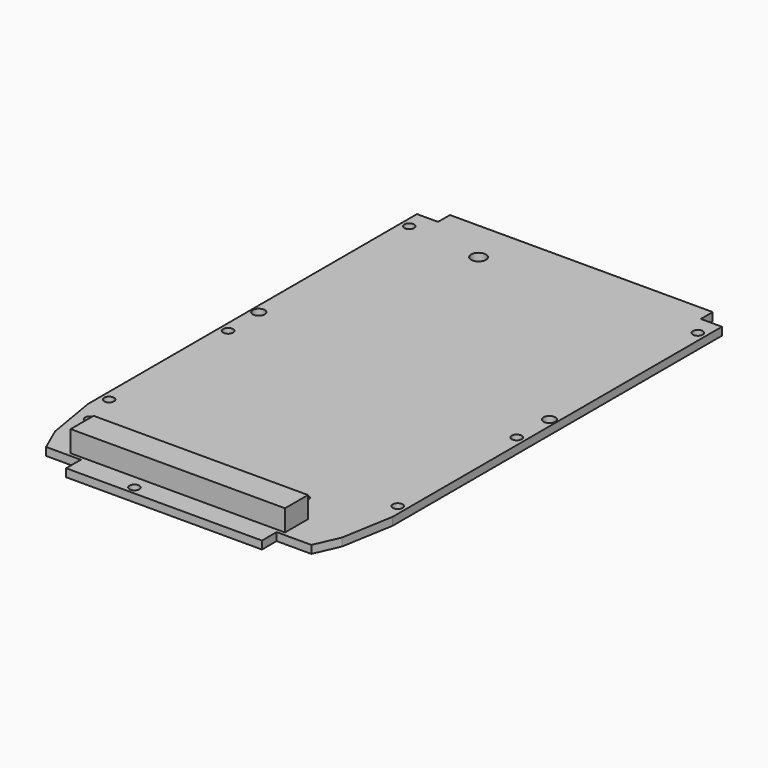
from build123d import *

# Parameters (mm, degrees)
SKETCH006_R   = 1
SKETCH006_R_2 = 1.2
SKETCH006_R_3 = 1.491082
PAD002_DEPTH  = 1.6
SKETCH033_W   = 5.831177
SKETCH033_H   = 20.949042
PAD019_DEPTH  = 5.5
PAD021_DEPTH  = 2
SKETCH053_W   = 19.104945
SKETCH053_H   = 22.868039
PAD026_DEPTH  = 2
SKETCH058_W   = 43.228985
SKETCH058_H   = 5.789597
PAD028_DEPTH  = 4.3
SKETCH110_W   = 3.54
SKETCH110_H   = 12.73
PAD057_DEPTH  = 3
FILLET018_R   = 1.7


with BuildPart() as part:
    # Sketch006 → Pad002 (new body)
    with BuildSketch(Plane.XY.offset(3)):
        Polygon((30.75, 54.68), (30.75, -28.32), (28.95, -38.82), (26.75, -43.82), (19.75, -43.82), (19.75, -47.52), (-19.75, -47.52), (-19.75, -43.82), (-26.75, -43.82), (-28.95, -38.82), (-30.75, -28.32), (-30.75, 54.68), (-26.5, 54.68), (-26.5, 57.68), (26.5, 57.68), (26.5, 54.68), align=None)
        with Locations((-27.25, -32.12)):
            Circle(SKETCH006_R, mode=Mode.SUBTRACT)
        with Locations((15.75, -32)):
            Circle(SKETCH006_R, mode=Mode.SUBTRACT)
        with Locations((29.1, 50.68)):
            Circle(SKETCH006_R, mode=Mode.SUBTRACT)
        with Locations((-29.1, 50.68)):
            Circle(SKETCH006_R, mode=Mode.SUBTRACT)
        with Locations((-29.1, 5)):
            Circle(SKETCH006_R, mode=Mode.SUBTRACT)
        with Locations((-29.3, 13)):
            Circle(SKETCH006_R_2, mode=Mode.SUBTRACT)
        with Locations((29.3, 13)):
            Circle(SKETCH006_R_2, mode=Mode.SUBTRACT)
        with Locations((29.1, 5)):
            Circle(SKETCH006_R, mode=Mode.SUBTRACT)
        with Locations((-7.25, -45.92)):
            Circle(SKETCH006_R, mode=Mode.SUBTRACT)
        with Locations((-29.1, -25)):
            Circle(SKETCH006_R, mode=Mode.SUBTRACT)
        with Locations((29.1, -25)):
            Circle(SKETCH006_R, mode=Mode.SUBTRACT)
        with Locations((-14.007447, 49.274082)):
            Circle(SKETCH006_R_3, mode=Mode.SUBTRACT)
    extrude(amount=-PAD002_DEPTH)

    # Sketch033 (on Face30 of Pad002) → Pad019 (join)
    with BuildSketch(Plane(origin=(0, 0, 1.4), x_dir=(1, 0, 0), z_dir=(0, 0, -1))):
        with Locations((-22.462421, -27.118268)):
            Rectangle(SKETCH033_W, SKETCH033_H)
    extrude(amount=PAD019_DEPTH)

    # Sketch046 (on Face5 of Pad019) → Pad021 (join)
    with BuildSketch(Plane(origin=(0, 0, 1.4), x_dir=(1, 0, 0), z_dir=(0, 0, -1))):
        Polygon((21.00816, -56.937296), (21.00816, -41.937296), (6.00816, -41.937296), (6.00816, -56.937296), (6.00816, -59.937296), (17.00816, -59.937296), (17.00816, -56.937296), align=None)
    extrude(amount=PAD021_DEPTH)

    # Sketch053 (on Face5 of Pad021) → Pad026 (join)
    with BuildSketch(Plane(origin=(0, 0, 1.4), x_dir=(1, 0, 0), z_dir=(0, 0, -1))):
        with Locations((0.746086, -5.026741)):
            Rectangle(SKETCH053_W, SKETCH053_H)
    extrude(amount=PAD026_DEPTH)

    # Sketch058 (on Face4 of Pad026) → Pad028 (join)
    with BuildSketch(Plane.XY.offset(3)):
        with Locations((-0.757428, -40.205624)):
            Rectangle(SKETCH058_W, SKETCH058_H)
    extrude(amount=PAD028_DEPTH)

    # Sketch110 (on Face5 of Pad028) → Pad057 (join)
    with BuildSketch(Plane(origin=(0, 0, 1.4), x_dir=(1, 0, 0), z_dir=(0, 0, -1))):
        with Locations((20.398529, -31.503779)):
            Rectangle(SKETCH110_W, SKETCH110_H)
    extrude(amount=PAD057_DEPTH)

    # Fillet018
    fillet018_edges = [part.edges().sort_by_distance(p)[0] for p in [
        (18.628529, 25.138779, -0.1),
        (22.168529, 25.138779, -0.1),
        (22.168529, 37.868779, -0.1),
        (18.628529, 37.868779, -0.1),
    ]]
    fillet(fillet018_edges, radius=FILLET018_R)


solid = part.part
